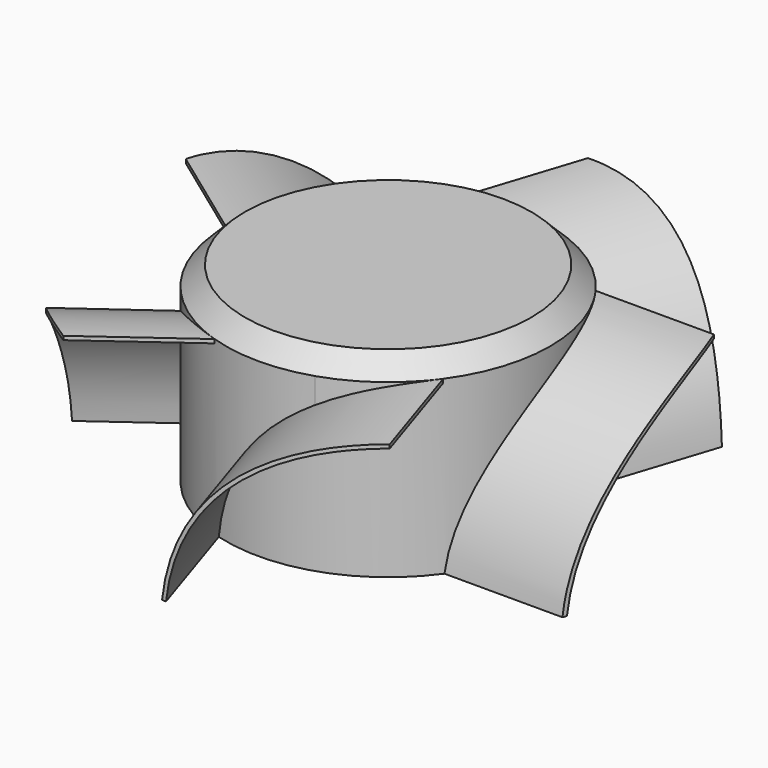
from build123d import *

# Parameters (mm, degrees)
F0_R     = 8.5
F1_DEPTH = 10
F2_SIZE  = 1
F4_DEPTH = 25
F6_COUNT = 5
F7_R     = 30
F7_R_2   = 14
F8_DEPTH = 25


with BuildPart() as f1:
    # F0 (on Top) → F1 (new body)
    with BuildSketch(Plane.XY):
        Circle(F0_R)
    extrude(amount=F1_DEPTH)

    # F2
    f2_edges = [f1.edges().sort_by_distance(p)[0] for p in [
        (-8.5, 0, 10),
    ]]
    chamfer(f2_edges, length=F2_SIZE)

    # F3 (on Right) → F4 (join)
    with BuildSketch(Plane.YZ):
        with BuildLine():
            Line((5, 8.8), (5, 9))
            ThreePointArc((5, 9), (-1.7082039325, 6.4161984871), (-4.9498743711, 0))
            Line((-4.9498743711, 0), (-4.7488460856, 0))
            ThreePointArc((-4.7488460856, 0), (-1.5665820638, 6.2746133918), (5, 8.8))
        make_face()
    extrude(amount=F4_DEPTH)

    # F6: F1 ×5 about axis
    f6_axis = Axis((0, 0, 8.4288474172), (0, 0, 1))


with BuildPart() as f1_1:
    add(f1.part)
    for i in range(1, F6_COUNT):
        add(f1.part.rotate(f6_axis, i * 360 / F6_COUNT))

    # F7 (on Top) → F8 (cut)
    with BuildSketch(Plane.XY):
        Circle(F7_R)
        Circle(F7_R_2, mode=Mode.SUBTRACT)
    extrude(amount=F8_DEPTH, mode=Mode.SUBTRACT)


solid = f1_1.part
